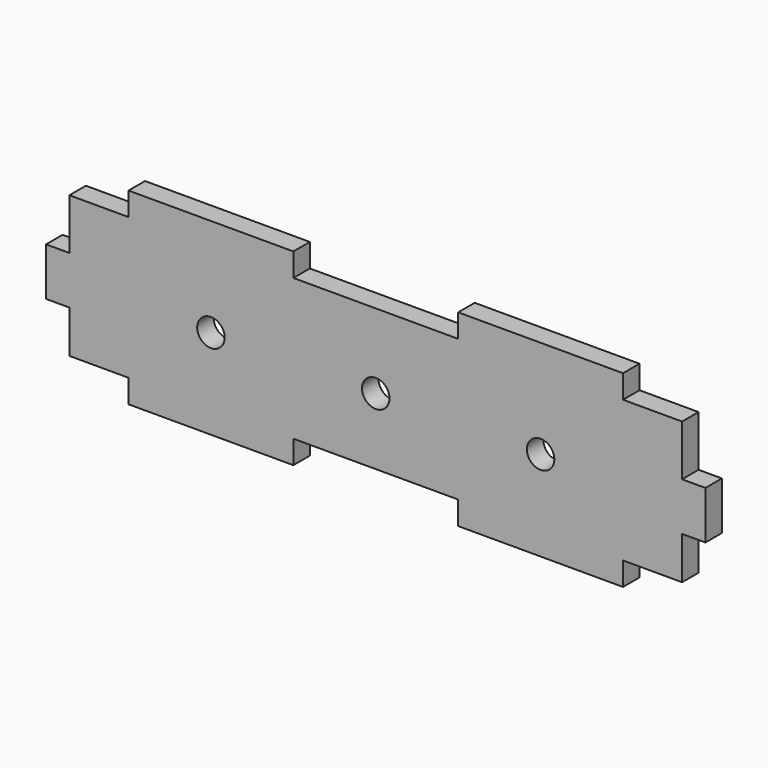
from build123d import *

# Parameters (mm, degrees)
F1_DEPTH = 19.05
F2_R     = 12.7
F3_DEPTH = 19.051


with BuildPart() as f1:
    # F0 (on Front) → F1 (new body)
    with BuildSketch(Plane.XZ):
        Polygon((-86.786535, 62.306761), (-86.786535, 17.856761), (-65.196535, 17.856761), (-65.196535, -21.513239), (-10.586535, -21.513239), (-10.586535, -43.103239), (141.813465, -43.103239), (141.813465, -21.513239), (294.213465, -21.513239), (294.213465, -43.103239), (446.613465, -43.103239), (446.613465, -21.513239), (501.223465, -21.513239), (501.223465, 17.856761), (522.813465, 17.856761), (522.813465, 62.306761), (501.223465, 62.306761), (501.223465, 109.296761), (446.613465, 109.296761), (446.613465, 130.886761), (294.213465, 130.886761), (294.213465, 109.296761), (141.813465, 109.296761), (141.813465, 130.886761), (-10.586535, 130.886761), (-10.586535, 109.296761), (-65.196535, 109.296761), (-65.196535, 62.306761), align=None)
    extrude(amount=F1_DEPTH)

    # F2 (on face) → F3 (cut, through all)
    with BuildSketch(Plane.XZ.offset(19.05)):
        with Locations((65.613465, 40.081761)):
            Circle(F2_R)
        with Locations((218.013465, 40.081761)):
            Circle(F2_R)
        with Locations((370.413465, 40.081761)):
            Circle(F2_R)
    extrude(amount=-F3_DEPTH, mode=Mode.SUBTRACT)


solid = f1.part
